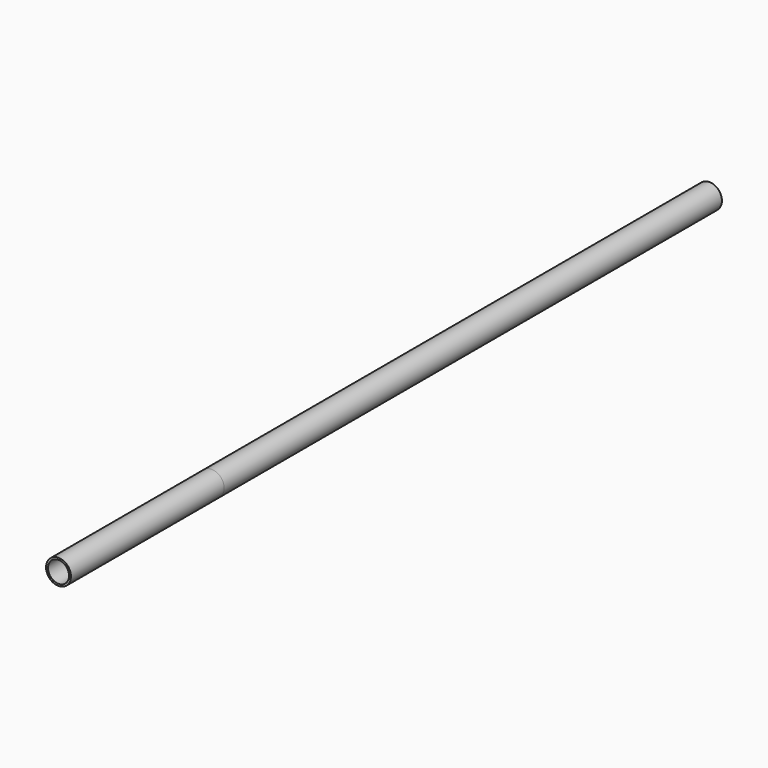
from build123d import *

# Parameters (mm, degrees)
F0_R     = 13
F0_R_2   = 11
F1_DEPTH = 800
F2_DEPTH = 750
F3_DEPTH = 850
F4_DEPTH = 650


with BuildPart() as f1:
    # F0 (on Front) → F1 (new body)
    with BuildSketch(Plane.XZ):
        Circle(F0_R)
        Circle(F0_R_2, mode=Mode.SUBTRACT)
    extrude(amount=F1_DEPTH)


with BuildPart() as f2:
    # F0 (on Front) → F2 (new body)
    with BuildSketch(Plane.XZ):
        Circle(F0_R)
        Circle(F0_R_2, mode=Mode.SUBTRACT)
    extrude(amount=F2_DEPTH)


with BuildPart() as f3:
    # F0 (on Front) → F3 (new body)
    with BuildSketch(Plane.XZ):
        Circle(F0_R)
        Circle(F0_R_2, mode=Mode.SUBTRACT)
    extrude(amount=F3_DEPTH)


with BuildPart() as f4:
    # F0 (on Front) → F4 (new body)
    with BuildSketch(Plane.XZ):
        Circle(F0_R)
        Circle(F0_R_2, mode=Mode.SUBTRACT)
    extrude(amount=F4_DEPTH)


solid = Compound([f1.part, f2.part, f3.part, f4.part])
